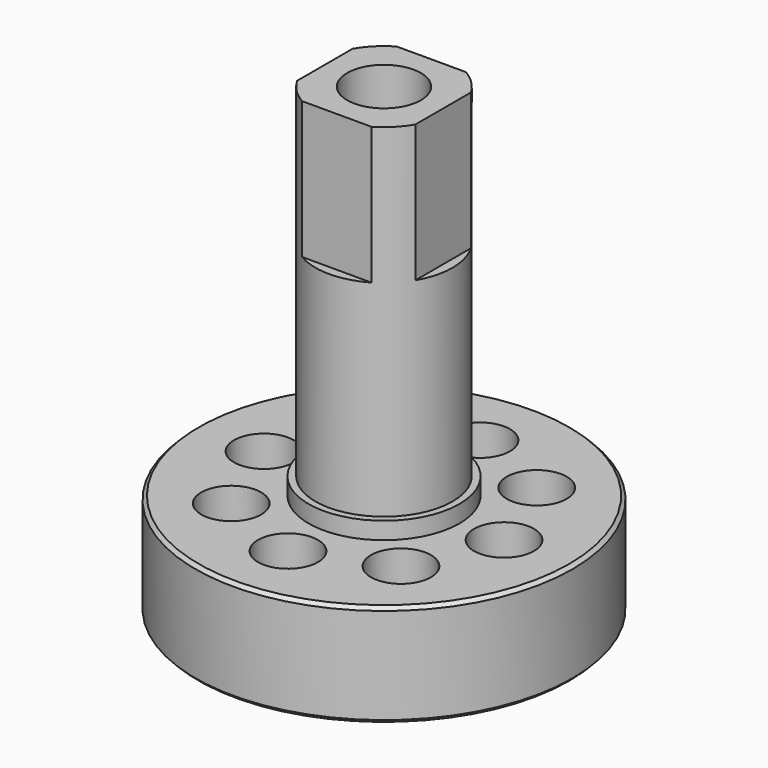
from build123d import *

# Parameters (mm, degrees)
F0_R      = 11
F1_DEPTH  = 6
F2_R      = 4
F3_DEPTH  = 21
F4_R      = 4.4
F5_DEPTH  = 1
F6_W      = 10
F6_H      = 10
F6_W_2    = 6.9
F6_H_2    = 6.9
F7_DEPTH  = 8
F8_R      = 1.75
F9_DEPTH  = 25
F11_SIZE  = 0.2
F12_R     = 2.15
F13_DEPTH = 10
F10_R     = 3
F14_DEPTH = 3


with BuildPart() as f1:
    # F0 (on Top) → F1 (new body)
    with BuildSketch(Plane.XY):
        Circle(F0_R)
    extrude(amount=F1_DEPTH)

    # F2 (on face) → F3 (join)
    with BuildSketch(Plane.XY.offset(6)):
        Circle(F2_R)
    extrude(amount=F3_DEPTH)

    # F4 (on face) → F5 (join)
    with BuildSketch(Plane.XY.offset(6)):
        Circle(F4_R)
    extrude(amount=F5_DEPTH)

    # F6 (on face) → F7 (cut)
    with BuildSketch(Plane.XY.offset(27)):
        Rectangle(F6_W, F6_H)
        Rectangle(F6_W_2, F6_H_2, mode=Mode.SUBTRACT)
    extrude(amount=-F7_DEPTH, mode=Mode.SUBTRACT)

    # F8 (on face) → F9 (cut)
    with BuildSketch(Plane(origin=(0, 0, 0), x_dir=(1, 0, 0), z_dir=(0, 0, -1))):
        with Locations((0, 7)):
            Circle(F8_R)
        with Locations((-4.949747, 4.949747)):
            Circle(F8_R)
        with Locations((-7, 0)):
            Circle(F8_R)
        with Locations((-4.949747, -4.949747)):
            Circle(F8_R)
        with Locations((0, -7)):
            Circle(F8_R)
        with Locations((4.949747, -4.949747)):
            Circle(F8_R)
        with Locations((7, 0)):
            Circle(F8_R)
        with Locations((4.949747, 4.949747)):
            Circle(F8_R)
    extrude(amount=-F9_DEPTH, mode=Mode.SUBTRACT)

    # F11
    f11_edges = [f1.edges().sort_by_distance(p)[0] for p in [
        (11, 0, 3),
        (-11, 0, 0),
        (-11, 0, 6),
    ]]
    chamfer(f11_edges, length=F11_SIZE)

    # F12 (on face) → F13 (cut)
    with BuildSketch(Plane.XY.offset(27)):
        Circle(F12_R)
    extrude(amount=-F13_DEPTH, mode=Mode.SUBTRACT)

    # F10 (on face) → F14 (cut)
    with BuildSketch(Plane(origin=(0, 0, 0), x_dir=(1, 0, 0), z_dir=(0, 0, -1))):
        Circle(F10_R)
    extrude(amount=-F14_DEPTH, mode=Mode.SUBTRACT)


solid = f1.part
